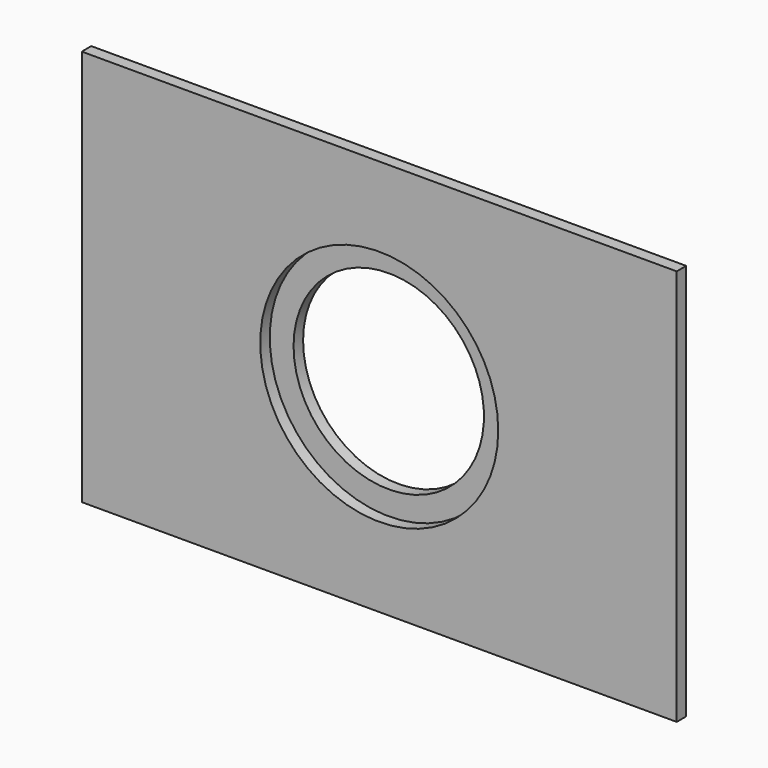
from build123d import *

# Parameters (mm, degrees)
F0_W     = 150
F0_H     = 100
F0_R     = 30
F1_DEPTH = 3
F2_R     = 30
F2_R_2   = 24
F3_DEPTH = 3


with BuildPart() as f1:
    # F0 (on Front) → F1 (new body)
    with BuildSketch(Plane.XZ):
        Rectangle(F0_W, F0_H)
        Circle(F0_R, mode=Mode.SUBTRACT)
    extrude(amount=F1_DEPTH)


with BuildPart() as f3:
    # F2 (on face) → F3 (new body)
    with BuildSketch(Plane(origin=(0, 0, 0), x_dir=(-1, 0, 0), z_dir=(0, 1, 0))):
        Polygon((-29.5, 32.5), (-32.5, 32.5), (-33.5, 32.5), (-32.5, 29.5), (-32.5, -32.5), (-29.5, -32.5), (-25.5, -32.5), (32.5, -32.5), (32.5, 29.5), (33.5, 32.5), (32.5, 32.5), (29.5, 32.5), (29.5, 12.5), (25.5, 32.5), (-25.5, 32.5), (-29.5, 12.5), align=None)
        Circle(F2_R, mode=Mode.SUBTRACT)
        Circle(F2_R)
        Circle(F2_R_2, mode=Mode.SUBTRACT)
    extrude(amount=F3_DEPTH)


solid = Compound([f1.part, f3.part])
